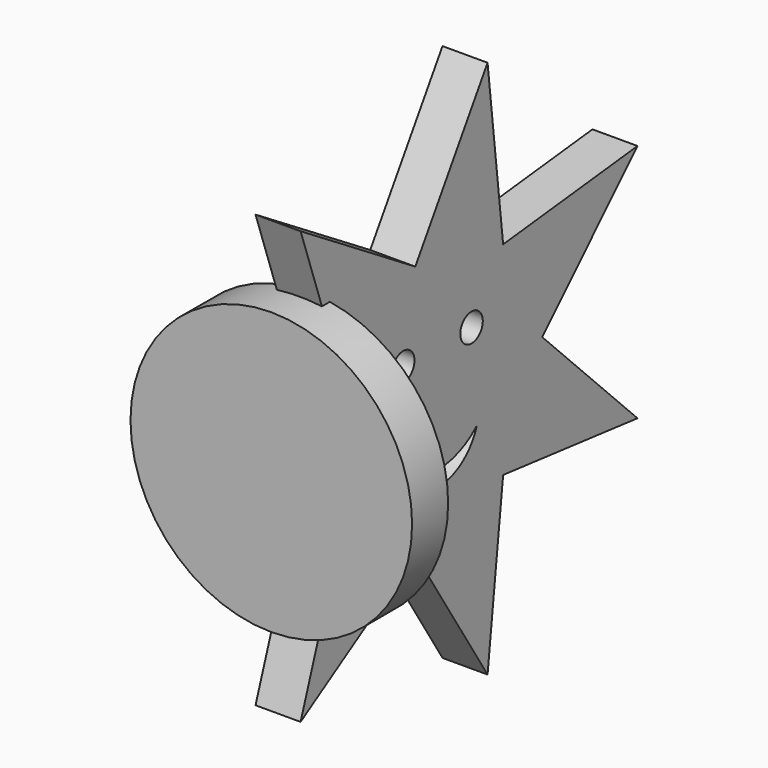
from build123d import *

# Parameters (mm, degrees)
SKETCH_R     = 25
PAD_DEPTH    = 8
SKETCH001_R  = 2.5
PAD001_DEPTH = 4


with BuildPart() as part:
    # Sketch → Pad (new body)
    with BuildSketch(Plane.XZ):
        Circle(SKETCH_R)
    extrude(amount=PAD_DEPTH)

    # Sketch001 → Pad001 (join, symmetric)
    with BuildSketch(Plane.YZ):
        Polygon((18.95327, 22.469796), (34.996391, 47.819712), (38.451828, 18.019377), (68.273913, 21.281774), (47.129503, 0), (68.273913, -21.281774), (38.451828, -18.019377), (34.996391, -47.819712), (18.95327, -22.469796), (-6.5, -38.348432), (3.31664, -10), (0, -8.827391), (0, 8.827391), (3.31664, 10), (-6.5, 38.348432), align=None)
        with Locations((16.276457, 7.884052)):
            Circle(SKETCH001_R, mode=Mode.SUBTRACT)
        with Locations((31.440147, 7.884052)):
            Circle(SKETCH001_R, mode=Mode.SUBTRACT)
        with BuildLine():
            ThreePointArc((15.563428, -7.94964), (24.081854, -14.045087), (32.600279, -7.94964))
            ThreePointArc((15.563428, -7.94964), (24.081854, -11.301611), (32.600279, -7.94964))
        make_face(mode=Mode.SUBTRACT)
    extrude(amount=PAD001_DEPTH, both=True)


solid = part.part
